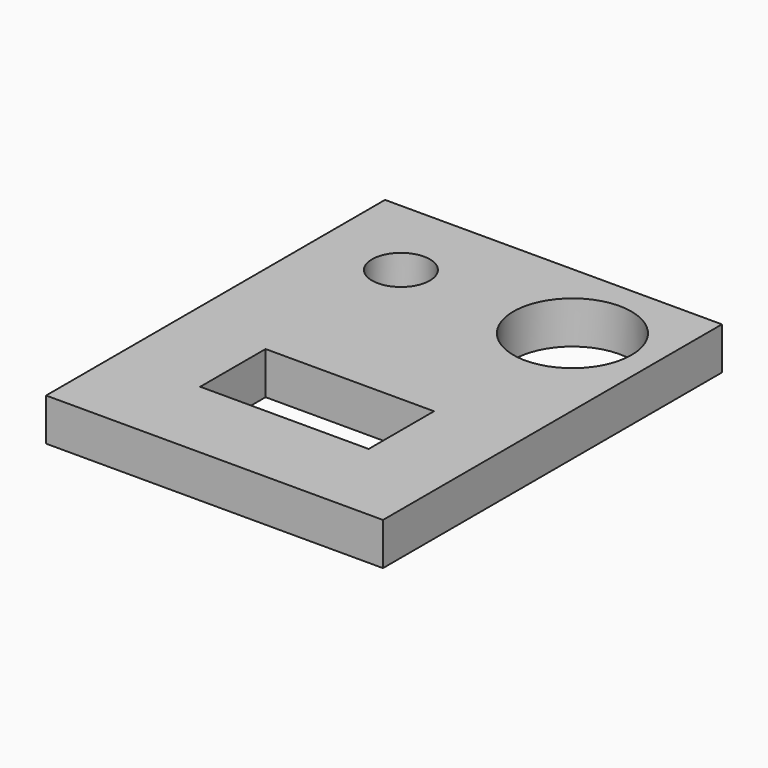
from build123d import *

# Parameters (mm, degrees)
SKETCH_W      = 39.71462
SKETCH_H      = 49.94055
SKETCH_R      = 3.40703
SKETCH_R_2    = 6.958796
SKETCH_W_2    = 19.857312
SKETCH_H_2    = 9.631389
EXTRUDE_DEPTH = 5


with BuildPart() as part:
    # Sketch → Extrude (new body)
    with BuildSketch(Plane.XY):
        with Locations((-0.178359, -5.053508)):
            Rectangle(SKETCH_W, SKETCH_H)
        with Locations((-10.16647, 9.928656)):
            Circle(SKETCH_R, mode=Mode.SUBTRACT)
        with Locations((10.047567, 9.928656)):
            Circle(SKETCH_R_2, mode=Mode.SUBTRACT)
        with Locations((-0.118905, -14.982164)):
            Rectangle(SKETCH_W_2, SKETCH_H_2, mode=Mode.SUBTRACT)
    extrude(amount=EXTRUDE_DEPTH)


solid = part.part
